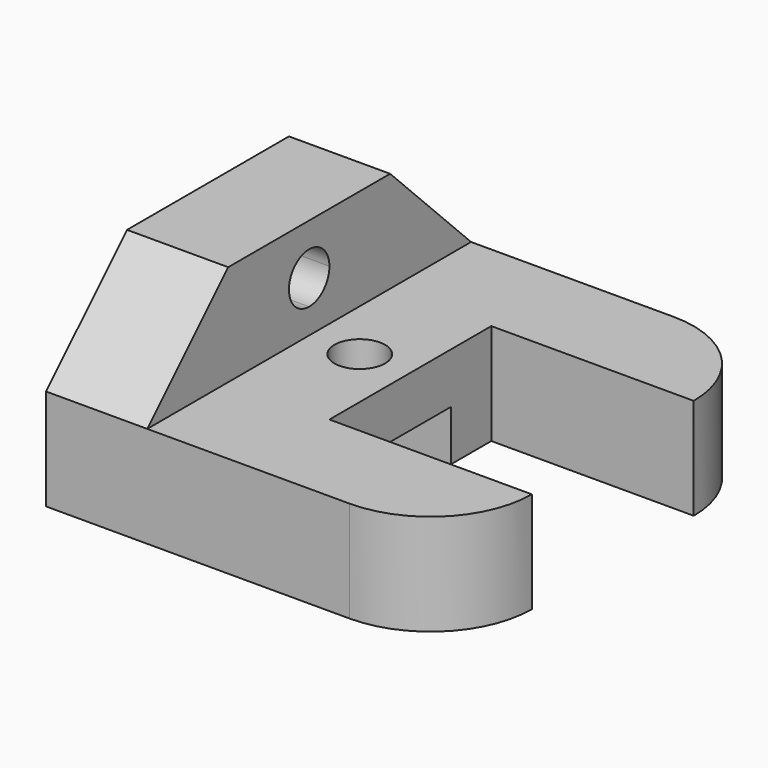
from build123d import *

# Parameters (mm, degrees)
F0_W     = 50.8
F0_H     = 50.8
F0_H_2   = 101.6
F1_DEPTH = 101.6
F0_R     = 12.7
F2_DEPTH = 50.8
F4_DEPTH = 203.201
F5_SIZE  = 50.8


with BuildPart() as f1:
    # F0 (on Top) → F1 (new body)
    with BuildSketch(Plane.XY):
        with Locations((25.4, -25.4)):
            Rectangle(F0_W, F0_H)
        with Locations((25.4, -101.6)):
            Rectangle(F0_W, F0_H_2)
        with Locations((25.4, -177.8)):
            Rectangle(F0_W, F0_H)
    extrude(amount=F1_DEPTH)

    # F0 (on Top) → F2 (join)
    with BuildSketch(Plane.XY):
        with BuildLine():
            ThreePointArc((203.2, -50.8), (188.321024, -14.878976), (152.4, 0))
            Line((152.4, 0), (152.4, -50.8))
            Line((152.4, -50.8), (203.2, -50.8))
        make_face()
        Polygon((152.4, 0), (50.8, 0), (50.8, -50.8), (50.8, -152.4), (50.8, -203.2), (152.4, -203.2), (152.4, -152.4), (101.6, -152.4), (101.6, -50.8), (152.4, -50.8), align=None)
        with Locations((76.2, -101.6)):
            Circle(F0_R, mode=Mode.SUBTRACT)
        with BuildLine():
            Line((152.4, -152.4), (152.4, -203.2))
            ThreePointArc((152.4, -203.2), (188.321024, -188.321024), (203.2, -152.4))
            Line((203.2, -152.4), (152.4, -152.4))
        make_face()
    extrude(amount=F2_DEPTH)

    # F3 (on Right) → F4 (cut, through all)
    with BuildSketch(Plane.YZ):
        Polygon((-127, 0), (-76.2, 0), (-76.2, 25.4), (-101.6, 25.4), (-127, 25.4), align=None)
        with BuildLine():
            ThreePointArc((-88.9, 76.2), (-110.580256, 85.180256), (-101.6, 63.5))
            ThreePointArc((-101.6, 63.5), (-92.619744, 67.219744), (-88.9, 76.2))
        make_face()
    extrude(amount=F4_DEPTH, mode=Mode.SUBTRACT)

    # F5
    f5_edges = [f1.edges().sort_by_distance(p)[0] for p in [
        (25.4, -203.2, 101.6),
        (25.4, 0, 101.6),
    ]]
    chamfer(f5_edges, length=F5_SIZE)


solid = f1.part
